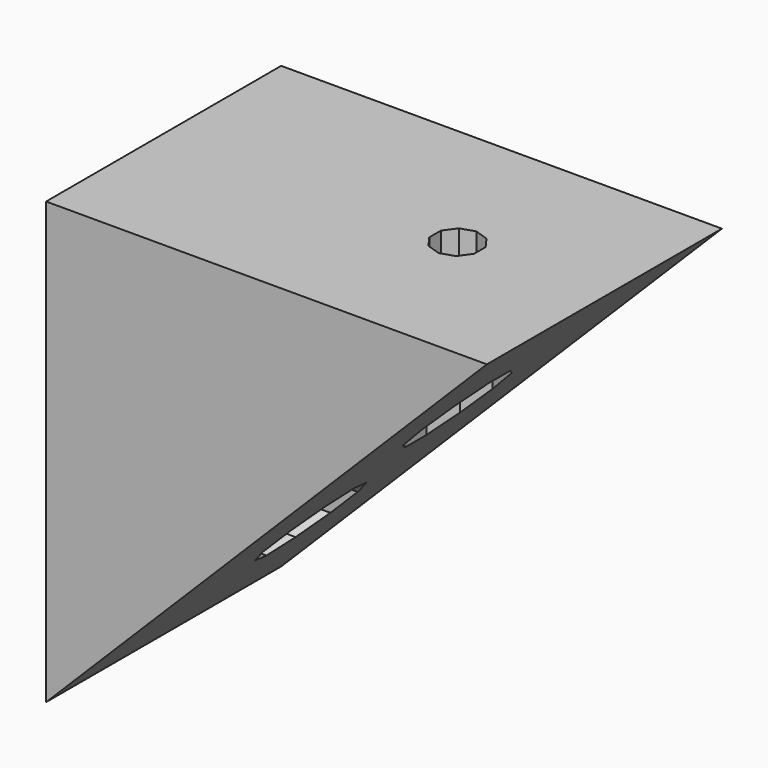
from build123d import *

# Parameters (mm, degrees)
PRISM094_DEPTH                = 30
PRISM094_PITCH_ANGLE          = 90
PRISM095_DEPTH                = 10
PRISM095_PITCH_ANGLE          = 90
PRISM096_DEPTH                = 30
PRISM096_ROLL_ANGLE           = 90
PRISM097_DEPTH                = 10
PRISM097_ROLL_ANGLE           = 90
CUBE092_W                     = 60
CUBE092_H                     = 30
CUBE092_DEPTH                 = 20
CUBE092_PLACEMENT_ANGLE       = 45
CUBE091_W                     = 30
CUBE091_H                     = 30
CUBE091_DEPTH                 = 20
DIFFERENCE055_PITCH_ANGLE     = -90
DIFFERENCE055_PLACEMENT_ANGLE = -90


with BuildPart() as prism094:
    # prism094 → prism094 (new body)
    with BuildSketch(Plane.XY):
        Polygon((1.6, 0), (1.294427, 0.940456), (0.494427, 1.52169), (-0.494427, 1.52169), (-1.294427, 0.940456), (-1.6, 0), (-1.294427, -0.940456), (-0.494427, -1.52169), (0.494427, -1.52169), (1.294427, -0.940456), align=None)
    extrude(amount=PRISM094_DEPTH)


with BuildPart() as prism094_1:
    # prism094 pitch: moved
    add(prism094.part.rotate(Axis((0, 0, 0), (0, 1, 0)), PRISM094_PITCH_ANGLE))


with BuildPart() as prism094_2:
    # prism094 placement: moved
    add(prism094_1.part.moved(Location((5, 20, 10))))


with BuildPart() as prism095:
    # prism095 → prism095 (new body)
    with BuildSketch(Plane.XY):
        Polygon((3, 0), (2.427051, 1.763356), (0.927051, 2.85317), (-0.927051, 2.85317), (-2.427051, 1.763356), (-3, 0), (-2.427051, -1.763356), (-0.927051, -2.85317), (0.927051, -2.85317), (2.427051, -1.763356), align=None)
    extrude(amount=PRISM095_DEPTH)


with BuildPart() as prism095_1:
    # prism095 pitch: moved
    add(prism095.part.rotate(Axis((0, 0, 0), (0, 1, 0)), PRISM095_PITCH_ANGLE))


with BuildPart() as prism095_2:
    # prism095 placement: moved
    add(prism095_1.part.moved(Location((15, 20, 10))))


with BuildPart() as prism096:
    # prism096 → prism096 (new body)
    with BuildSketch(Plane.XY):
        Polygon((1.6, 0), (1.294427, 0.940456), (0.494427, 1.52169), (-0.494427, 1.52169), (-1.294427, 0.940456), (-1.6, 0), (-1.294427, -0.940456), (-0.494427, -1.52169), (0.494427, -1.52169), (1.294427, -0.940456), align=None)
    extrude(amount=PRISM096_DEPTH)


with BuildPart() as prism096_1:
    # prism096 roll: moved
    add(prism096.part.rotate(Axis((0, 0, 0), (1, 0, 0)), PRISM096_ROLL_ANGLE))


with BuildPart() as prism096_2:
    # prism096 placement: moved
    add(prism096_1.part.moved(Location((10, 20, 10))))


with BuildPart() as prism097:
    # prism097 → prism097 (new body)
    with BuildSketch(Plane.XY):
        Polygon((3, 0), (2.427051, 1.763356), (0.927051, 2.85317), (-0.927051, 2.85317), (-2.427051, 1.763356), (-3, 0), (-2.427051, -1.763356), (-0.927051, -2.85317), (0.927051, -2.85317), (2.427051, -1.763356), align=None)
    extrude(amount=PRISM097_DEPTH)


with BuildPart() as prism097_1:
    # prism097 roll: moved
    add(prism097.part.rotate(Axis((0, 0, 0), (1, 0, 0)), PRISM097_ROLL_ANGLE))


with BuildPart() as prism097_2:
    # prism097 placement: moved
    add(prism097_1.part.moved(Location((10, 15, 10))))


with BuildPart() as union044:
    # cube092 → cube092 (new body)
    with BuildSketch(Plane.XY):
        with Locations((30, 15)):
            Rectangle(CUBE092_W, CUBE092_H)
    extrude(amount=CUBE092_DEPTH)


with BuildPart() as union044_1:
    # cube092 placement: moved
    add(union044.part.rotate(Axis((0, 0, 0), (0, 0, 1)), CUBE092_PLACEMENT_ANGLE))

    # union044: union prism094, prism095, prism096, prism097
    add(prism094_2.part)
    add(prism095_2.part)
    add(prism096_2.part)
    add(prism097_2.part)


with BuildPart() as difference055:
    # cube091 → cube091 (new body)
    with BuildSketch(Plane.XY):
        with Locations((15, 15)):
            Rectangle(CUBE091_W, CUBE091_H)
    extrude(amount=CUBE091_DEPTH)

    # difference055: cut union044
    add(union044_1.part, mode=Mode.SUBTRACT)


with BuildPart() as difference055_1:
    # difference055 pitch: moved
    add(difference055.part.rotate(Axis((0, 0, 0), (0, 1, 0)), DIFFERENCE055_PITCH_ANGLE))


with BuildPart() as difference055_2:
    # difference055 placement: moved
    add(difference055_1.part.moved(Location((16, 285, 302))).rotate(Axis((16, 285, 302), (0, 0, 1)), DIFFERENCE055_PLACEMENT_ANGLE))


solid = difference055_2.part
